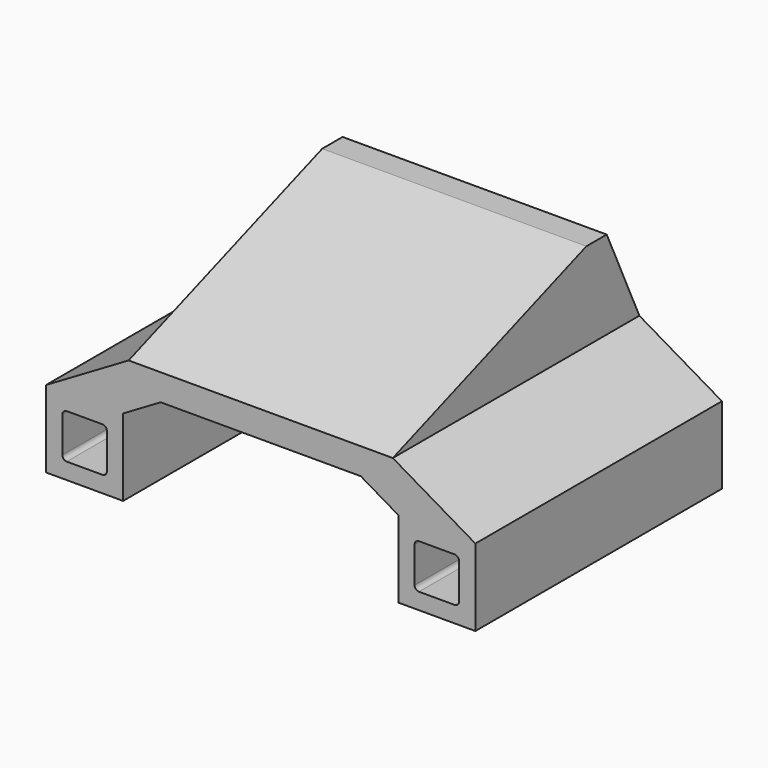
from build123d import *

# Parameters (mm, degrees)
PAD_DEPTH    = 140
SKETCH001_W  = 120
SKETCH001_H  = 140
PAD001_DEPTH = 40
POCKET_DEPTH = 157.501


with BuildPart() as part:
    # Sketch → Pad (new body)
    with BuildSketch(Plane.XZ):
        Polygon((0, 0), (37.5, 22), (157.5, 22), (195, 0), (195, -35), (160, -35), (160, 0), (142.954545, 10), (52.045455, 10), (35, 0), (35, -35), (0, -35), align=None)
        with BuildLine():
            Line((7.400011, -9.4), (7.400011, -25.6))
            ThreePointArc((7.400011, -25.6), (7.985793, -27.01421), (9.4, -27.6))
            Line((9.4, -27.6), (25.6, -27.6))
            ThreePointArc((25.6, -27.6), (27.014214, -27.014214), (27.6, -25.6))
            Line((27.6, -9.4), (27.6, -25.6))
            ThreePointArc((27.6, -9.4), (27.014214, -7.985786), (25.6, -7.4))
            Line((9.4, -7.4), (25.6, -7.4))
            ThreePointArc((9.4, -7.4), (7.985793, -7.98579), (7.400011, -9.4))
        make_face(mode=Mode.SUBTRACT)
        with BuildLine():
            Line((169.4, -7.4), (185.6, -7.4))
            ThreePointArc((187.6, -9.4), (187.014214, -7.985786), (185.6, -7.4))
            Line((187.6, -9.4), (187.6, -25.6))
            ThreePointArc((185.6, -27.6), (187.014214, -27.014214), (187.6, -25.6))
            Line((185.6, -27.6), (169.4, -27.6))
            ThreePointArc((167.4, -25.6), (167.985786, -27.014214), (169.4, -27.6))
            Line((167.4, -25.6), (167.4, -9.4))
            ThreePointArc((169.4, -7.4), (167.985786, -7.985786), (167.4, -9.4))
        make_face(mode=Mode.SUBTRACT)
    extrude(amount=PAD_DEPTH)

    # Sketch001 (on Face2 of Pad) → Pad001 (join)
    with BuildSketch(Plane(origin=(0, 0, 22), x_dir=(-1, 0, 0), z_dir=(0, 0, 1))):
        with Locations((-97.5, 70)):
            Rectangle(SKETCH001_W, SKETCH001_H)
    extrude(amount=PAD001_DEPTH)

    # Sketch002 (on Face3 of Pad001) → Pocket (cut, through all)
    with BuildSketch(Plane(origin=(37.5, 0, 0), x_dir=(0, 0, -1), z_dir=(-1, 0, 0))):
        Polygon((-62, 30.100903), (-22, 140), (-62, 140), align=None)
        Polygon((-22, 0), (-62, 0), (-62, 18.531311), align=None)
    extrude(amount=-POCKET_DEPTH, mode=Mode.SUBTRACT)


solid = part.part
